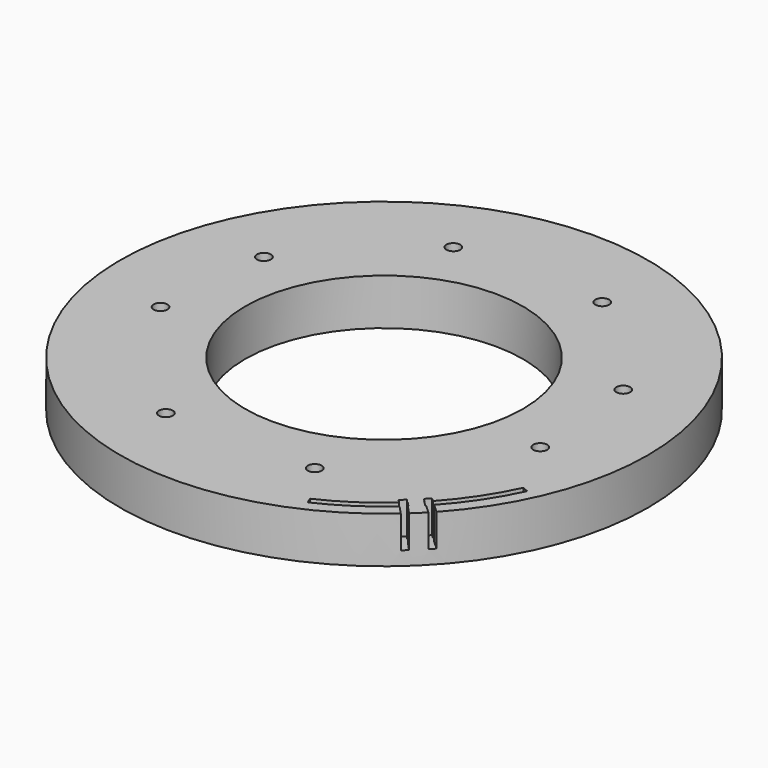
from build123d import *

# Parameters (mm, degrees)
BOX311_W                    = 60
BOX311_H                    = 60
BOX311_DEPTH                = 7
BOX311_PLACEMENT_ANGLE      = 1
BOX312_W                    = 60
BOX312_H                    = 60
BOX312_DEPTH                = 7
BOX312_PLACEMENT_ANGLE      = 2
BOX310_W                    = 120
BOX310_H                    = 60
BOX310_DEPTH                = 7
TUBE084_R                   = 54.4
TUBE084_R_2                 = 53
TUBE084_DEPTH               = 7
BOX308_W                    = 60
BOX308_H                    = 60
BOX308_DEPTH                = 7
BOX308_PLACEMENT_ANGLE      = 20
BOX307_W                    = 60
BOX307_H                    = 60
BOX307_DEPTH                = 7
BOX307_PLACEMENT_ANGLE      = 20
BOX309_W                    = 120
BOX309_H                    = 60
BOX309_DEPTH                = 7
TUBE085_R                   = 54.4
TUBE085_R_2                 = 53
TUBE085_DEPTH               = 7
CUT335_PLACEMENT_ANGLE      = 225
CYLINDER804_R               = 52
CYLINDER804_DEPTH           = 7
BOX313_W                    = 1.4
BOX313_H                    = 60
BOX313_DEPTH                = 7
BOX313_PLACEMENT_ANGLE      = 2.7
BOX314_W                    = 1.4
BOX314_H                    = 60
BOX314_DEPTH                = 7
BOX314_PLACEMENT_ANGLE      = 2
CUT339_PLACEMENT_ANGLE      = 224.9
CYLINDER808_R               = 1.5
CYLINDER808_DEPTH           = 100
CYLINDER808_PLACEMENT_ANGLE = 100
CYLINDER806_R               = 1.5
CYLINDER806_DEPTH           = 100
CYLINDER806_PLACEMENT_ANGLE = 135
CYLINDER810_R               = 1.5
CYLINDER810_DEPTH           = 100
CYLINDER812_R               = 1.5
CYLINDER812_DEPTH           = 100
CYLINDER812_PLACEMENT_ANGLE = 225
CYLINDER805_R               = 1.5
CYLINDER805_DEPTH           = 100
CYLINDER809_R               = 1.5
CYLINDER809_DEPTH           = 100
CYLINDER809_PLACEMENT_ANGLE = 55
CYLINDER807_R               = 1.5
CYLINDER807_DEPTH           = 100
CYLINDER811_R               = 1.5
CYLINDER811_DEPTH           = 100
CYLINDER811_PLACEMENT_ANGLE = 45
TUBE087_R                   = 57
TUBE087_R_2                 = 30
TUBE087_DEPTH               = 10


with BuildPart() as krychle311:
    # Box311 → Box311 (new body)
    with BuildSketch(Plane.XY):
        with Locations((30, 30)):
            Rectangle(BOX311_W, BOX311_H)
    extrude(amount=BOX311_DEPTH)


with BuildPart() as krychle311_1:
    # Box311 placement: moved
    add(krychle311.part.moved(Location((-59.990862, -1.047144, -22))).rotate(Axis((-59.990862, -1.047144, -22), (0, 0, 1)), BOX311_PLACEMENT_ANGLE))


with BuildPart() as compound719:
    # Box312 → Box312 (new body)
    with BuildSketch(Plane.XY):
        with Locations((30, 30)):
            Rectangle(BOX312_W, BOX312_H)
    extrude(amount=BOX312_DEPTH)


with BuildPart() as compound719_1:
    # Box312 placement: moved
    add(compound719.part.moved(Location((0, 0, -22))).rotate(Axis((0, 0, -22), (0, 0, -1)), BOX312_PLACEMENT_ANGLE))

    # Compound719: union Krychle311
    add(krychle311_1.part)


with BuildPart() as krychle310:
    # Box310 → Box310 (new body)
    with BuildSketch(Plane(origin=(-60, -60, -22), x_dir=(1, 0, 0), z_dir=(0, 0, 1))):
        with Locations((60, 30)):
            Rectangle(BOX310_W, BOX310_H)
    extrude(amount=BOX310_DEPTH)


with BuildPart() as cut338:
    # Tube084 → Tube084 (new body)
    with BuildSketch(Plane.XY.offset(-22)):
        Circle(TUBE084_R)
        Circle(TUBE084_R_2, mode=Mode.SUBTRACT)
    extrude(amount=TUBE084_DEPTH)

    # Cut337: cut Krychle310
    add(krychle310.part, mode=Mode.SUBTRACT)

    # Cut338: cut Compound719
    add(compound719_1.part, mode=Mode.SUBTRACT)


with BuildPart() as cut338_1:
    # Cut338 placement: moved
    add(cut338.part.moved(Location((0, 0, -7))))


with BuildPart() as krychle308:
    # Box308 → Box308 (new body)
    with BuildSketch(Plane.XY):
        with Locations((30, 30)):
            Rectangle(BOX308_W, BOX308_H)
    extrude(amount=BOX308_DEPTH)


with BuildPart() as krychle308_1:
    # Box308 placement: moved
    add(krychle308.part.moved(Location((-56.381557, -20.521209, -22))).rotate(Axis((-56.381557, -20.521209, -22), (0, 0, 1)), BOX308_PLACEMENT_ANGLE))


with BuildPart() as compound718:
    # Box307 → Box307 (new body)
    with BuildSketch(Plane.XY):
        with Locations((30, 30)):
            Rectangle(BOX307_W, BOX307_H)
    extrude(amount=BOX307_DEPTH)


with BuildPart() as compound718_1:
    # Box307 placement: moved
    add(compound718.part.moved(Location((0, 0, -22))).rotate(Axis((0, 0, -22), (0, 0, -1)), BOX307_PLACEMENT_ANGLE))

    # Compound718: union Krychle308
    add(krychle308_1.part)


with BuildPart() as krychle309:
    # Box309 → Box309 (new body)
    with BuildSketch(Plane(origin=(-60, -60, -22), x_dir=(1, 0, 0), z_dir=(0, 0, 1))):
        with Locations((60, 30)):
            Rectangle(BOX309_W, BOX309_H)
    extrude(amount=BOX309_DEPTH)


with BuildPart() as cut335:
    # Tube085 → Tube085 (new body)
    with BuildSketch(Plane.XY.offset(-22)):
        Circle(TUBE085_R)
        Circle(TUBE085_R_2, mode=Mode.SUBTRACT)
    extrude(amount=TUBE085_DEPTH)

    # Cut334: cut Krychle309
    add(krychle309.part, mode=Mode.SUBTRACT)

    # Cut336: cut Compound718
    add(compound718_1.part, mode=Mode.SUBTRACT)


with BuildPart() as cut335_1:
    # Cut336 placement: moved
    add(cut335.part.moved(Location((0, 0, -7))))

    # Cut335: cut Cut338
    add(cut338_1.part, mode=Mode.SUBTRACT)


with BuildPart() as cut335_2:
    # Cut335 placement: moved
    add(cut335_1.part.moved(Location((0, 0, 74))).rotate(Axis((0, 0, 74), (0, 0, 1)), CUT335_PLACEMENT_ANGLE))


with BuildPart() as obj1:
    # Cylinder804 → Cylinder804 (new body)
    with BuildSketch(Plane.XY.offset(-22)):
        Circle(CYLINDER804_R)
    extrude(amount=CYLINDER804_DEPTH)


with BuildPart() as krychle313:
    # Box313 → Box313 (new body)
    with BuildSketch(Plane.XY):
        with Locations((0.7, 30)):
            Rectangle(BOX313_W, BOX313_H)
    extrude(amount=BOX313_DEPTH)


with BuildPart() as krychle313_1:
    # Box313 placement: moved
    add(krychle313.part.moved(Location((0, 0, -22))).rotate(Axis((0, 0, -22), (0, 0, 1)), BOX313_PLACEMENT_ANGLE))


with BuildPart() as cut339:
    # Box314 → Box314 (new body)
    with BuildSketch(Plane.XY):
        with Locations((0.7, 30)):
            Rectangle(BOX314_W, BOX314_H)
    extrude(amount=BOX314_DEPTH)


with BuildPart() as cut339_1:
    # Box314 placement: moved
    add(cut339.part.moved(Location((0, 0, -22))).rotate(Axis((0, 0, -22), (0, 0, -1)), BOX314_PLACEMENT_ANGLE))

    # Compound720: union Krychle313
    add(krychle313_1.part)

    # Cut339: cut obj1
    add(obj1.part, mode=Mode.SUBTRACT)


with BuildPart() as cut339_2:
    # Cut339 placement: moved
    add(cut339_1.part.moved(Location((0, 0, 67))).rotate(Axis((0, 0, 67), (0, 0, 1)), CUT339_PLACEMENT_ANGLE))


with BuildPart() as obj2:
    # Cylinder808 → Cylinder808 (new body)
    with BuildSketch(Plane.XY):
        Circle(CYLINDER808_R)
    extrude(amount=CYLINDER808_DEPTH)


with BuildPart() as obj2_1:
    # Cylinder808 placement: moved
    add(obj2.part.moved(Location((41.004432, -9.090464, 0))).rotate(Axis((41.004432, -9.090464, 0), (0, 0, 1)), CYLINDER808_PLACEMENT_ANGLE))


with BuildPart() as obj3:
    # Cylinder806 → Cylinder806 (new body)
    with BuildSketch(Plane.XY):
        Circle(CYLINDER806_R)
    extrude(amount=CYLINDER806_DEPTH)


with BuildPart() as obj3_1:
    # Cylinder806 placement: moved
    add(obj3.part.moved(Location((38.80294, 16.072704, 0))).rotate(Axis((38.80294, 16.072704, 0), (0, 0, 1)), CYLINDER806_PLACEMENT_ANGLE))


with BuildPart() as obj4:
    # Cylinder810 → Cylinder810 (new body)
    with BuildSketch(Plane(origin=(16.072704, 38.80294, 0), x_dir=(-1, 0, 0), z_dir=(0, 0, 1))):
        Circle(CYLINDER810_R)
    extrude(amount=CYLINDER810_DEPTH)


with BuildPart() as obj5:
    # Cylinder812 → Cylinder812 (new body)
    with BuildSketch(Plane.XY):
        Circle(CYLINDER812_R)
    extrude(amount=CYLINDER812_DEPTH)


with BuildPart() as obj5_1:
    # Cylinder812 placement: moved
    add(obj5.part.moved(Location((-16.072704, 38.80294, 0))).rotate(Axis((-16.072704, 38.80294, 0), (0, 0, 1)), CYLINDER812_PLACEMENT_ANGLE))


with BuildPart() as obj6:
    # Cylinder805 → Cylinder805 (new body)
    with BuildSketch(Plane(origin=(-38.80294, 16.072704, 0), x_dir=(0, -1, 0), z_dir=(0, 0, 1))):
        Circle(CYLINDER805_R)
    extrude(amount=CYLINDER805_DEPTH)


with BuildPart() as obj7:
    # Cylinder809 → Cylinder809 (new body)
    with BuildSketch(Plane.XY):
        Circle(CYLINDER809_R)
    extrude(amount=CYLINDER809_DEPTH)


with BuildPart() as obj7_1:
    # Cylinder809 placement: moved
    add(obj7.part.moved(Location((-41.004432, -9.090464, 0))).rotate(Axis((-41.004432, -9.090464, 0), (0, 0, -1)), CYLINDER809_PLACEMENT_ANGLE))


with BuildPart() as obj8:
    # Cylinder807 → Cylinder807 (new body)
    with BuildSketch(Plane(origin=(-16.072704, -38.80294, 0), x_dir=(1, 0, 0), z_dir=(0, 0, 1))):
        Circle(CYLINDER807_R)
    extrude(amount=CYLINDER807_DEPTH)


with BuildPart() as compound721:
    # Cylinder811 → Cylinder811 (new body)
    with BuildSketch(Plane.XY):
        Circle(CYLINDER811_R)
    extrude(amount=CYLINDER811_DEPTH)


with BuildPart() as compound721_1:
    # Cylinder811 placement: moved
    add(compound721.part.moved(Location((16.072704, -38.80294, 0))).rotate(Axis((16.072704, -38.80294, 0), (0, 0, 1)), CYLINDER811_PLACEMENT_ANGLE))

    # Compound721: union obj2, obj3, obj4, obj5, obj6, obj7, obj8
    add(obj2_1.part)
    add(obj3_1.part)
    add(obj4.part)
    add(obj5_1.part)
    add(obj6.part)
    add(obj7_1.part)
    add(obj8.part)


with BuildPart() as cut342:
    # Tube087 → Tube087 (new body)
    with BuildSketch(Plane.XY.offset(42)):
        Circle(TUBE087_R)
        Circle(TUBE087_R_2, mode=Mode.SUBTRACT)
    extrude(amount=TUBE087_DEPTH)

    # Cut340: cut Compound721
    add(compound721_1.part, mode=Mode.SUBTRACT)

    # Cut341: cut Cut339
    add(cut339_2.part, mode=Mode.SUBTRACT)

    # Cut342: cut Cut335
    add(cut335_2.part, mode=Mode.SUBTRACT)


solid = cut342.part
